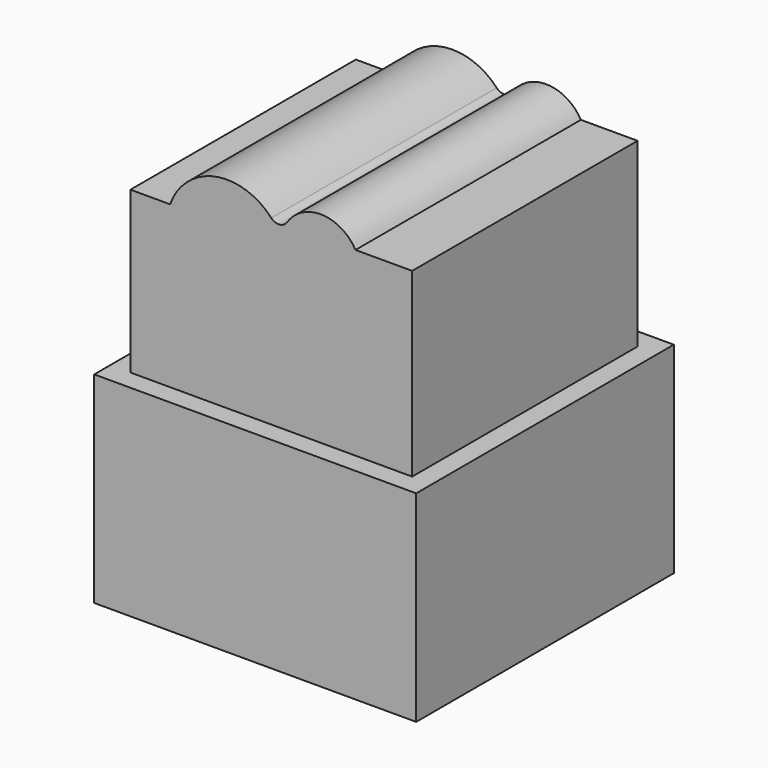
from build123d import *

# Parameters (mm, degrees)
BOX001_W      = 10
BOX001_H      = 10
BOX001_DEPTH  = 17
EXTRUDE_DEPTH = 14
BOX_W         = 16
BOX_H         = 16
BOX_DEPTH     = 10


with BuildPart() as cube001:
    # Box001 → Box001 (new body)
    with BuildSketch(Plane(origin=(-5, -5, 0), x_dir=(1, 0, 0), z_dir=(0, 0, 1))):
        with Locations((5, 5)):
            Rectangle(BOX001_W, BOX001_H)
    extrude(amount=BOX001_DEPTH)


with BuildPart() as extrude_body:
    # Sketch → Extrude (new body)
    with BuildSketch(Plane(origin=(-7, -7, 0), x_dir=(1, 0, 0), z_dir=(0, -1, 0))):
        with BuildLine():
            ThreePointArc((7, 19.039578), (4.192599, 19.937873), (1.971545, 18))
            Line((1.971545, 18), (0, 18))
            Line((0, 18), (0, 10))
            Line((0, 10), (14, 10))
            Line((14, 10), (14, 19))
            Line((14, 19), (11.183659, 19))
            ThreePointArc((11.183659, 19), (9.512524, 19.999072), (7.783659, 19.103606))
            ThreePointArc((7, 19.039578), (7.407388, 18.881168), (7.783659, 19.103606))
        make_face()
    extrude(amount=-EXTRUDE_DEPTH)


with BuildPart() as cut:
    # Box → Box (new body)
    with BuildSketch(Plane(origin=(-8, -8, 0), x_dir=(1, 0, 0), z_dir=(0, 0, 1))):
        with Locations((8, 8)):
            Rectangle(BOX_W, BOX_H)
    extrude(amount=BOX_DEPTH)

    # Fusion: union Extrude body
    add(extrude_body.part)

    # Cut: cut Cube001
    add(cube001.part, mode=Mode.SUBTRACT)


solid = cut.part
